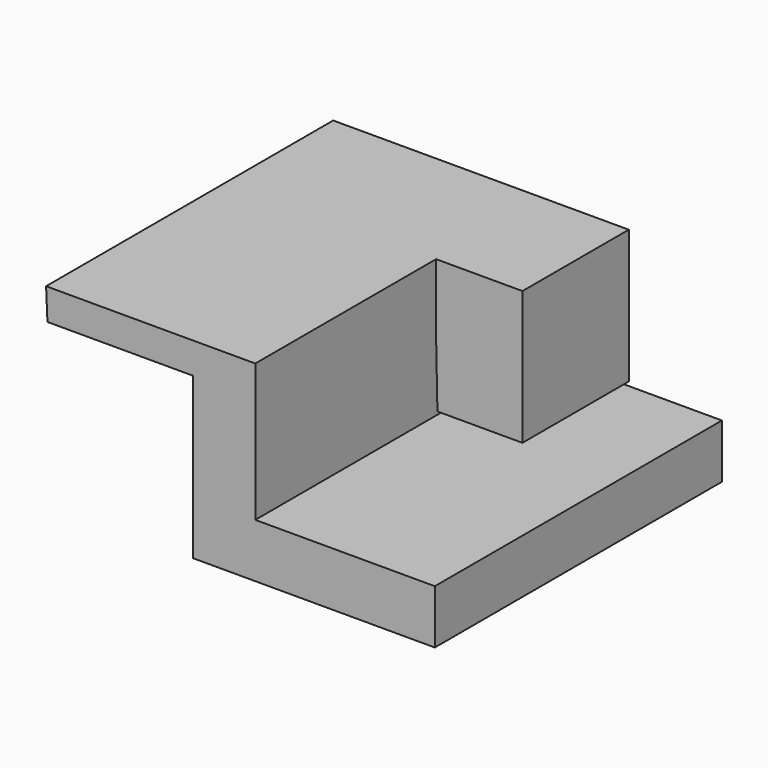
from build123d import *

# Parameters (mm, degrees)
F1_DEPTH = 82.296
F3_DEPTH = 17.018
F4_DEPTH = 13.462


with BuildPart() as f1:
    # F0 (on Front) → F1 (new body)
    with BuildSketch(Plane.XZ):
        Polygon((-19.499537, 41.320443), (-54.165378, 41.320443), (-53.855862, 34.201566), (-20.428086, 34.201566), (-20.428086, 18.106712), (-20.428086, -2.63089), (34.975354, -2.63089), (34.975354, 9.749768), (-6.190328, 9.749768), (-6.190328, 41.320443), align=None)
    extrude(amount=F1_DEPTH)

    # F2 (on Front) → F3 (join)
    with BuildSketch(Plane.XZ):
        Polygon((13.618723, 41.320443), (-6.499845, 41.320443), (-5.880812, 10.678317), (13.618723, 10.678317), align=None)
    extrude(amount=F3_DEPTH)

    # F3_face (on face) → F4 (join)
    with BuildSketch(Plane(origin=(3.752634, -17.018, 26.039435), x_dir=(1, 0, 0), z_dir=(0, -1, 0))):
        Polygon((-9.942962, -0.040067), (-9.633446, -15.361118), (9.866089, -15.361118), (9.866089, 15.281008), (-9.942962, 15.281008), align=None)
    extrude(amount=F4_DEPTH)


solid = f1.part
